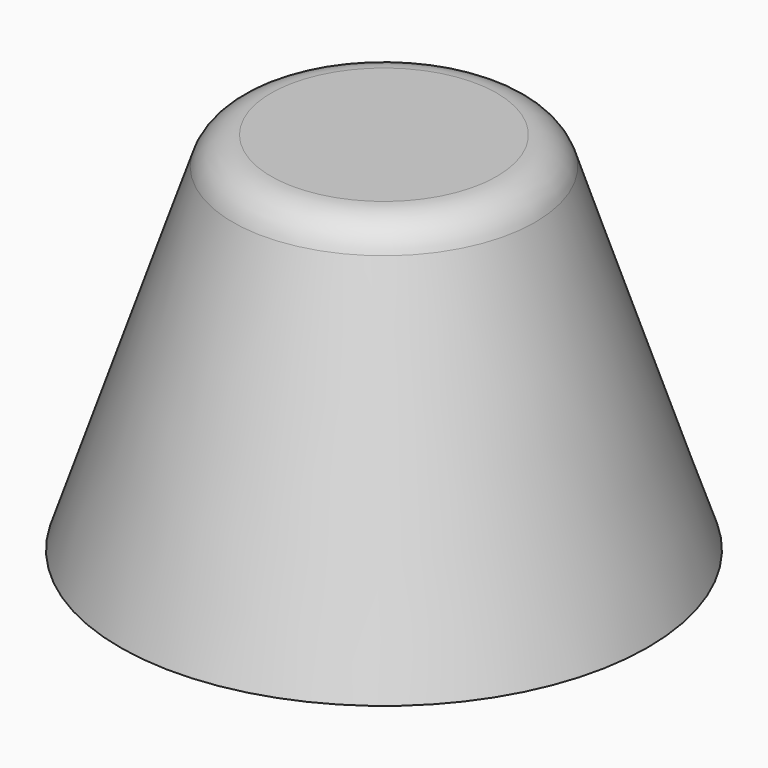
from build123d import *

# Parameters (mm, degrees)
F2_T = -1
F3_R = 1


with BuildPart() as f1:
    # F0 (on Front) → F1 (revolve)
    with BuildSketch(Plane.XZ):
        Polygon((0, 9), (0, 0), (6.5, 0), (3.5, 9), align=None)
    revolve(axis=Axis((0, 0, 4.5), (0, 0, -1)))

    # F2
    f2_openings = [f1.faces().sort_by_distance(p)[0] for p in [
        (0, 0, 0),
    ]]
    offset(amount=F2_T, openings=f2_openings)

    # F3
    f3_edges = [f1.edges().sort_by_distance(p)[0] for p in [
        (-3.5, 0, 9),
    ]]
    fillet(f3_edges, radius=F3_R)


solid = f1.part
